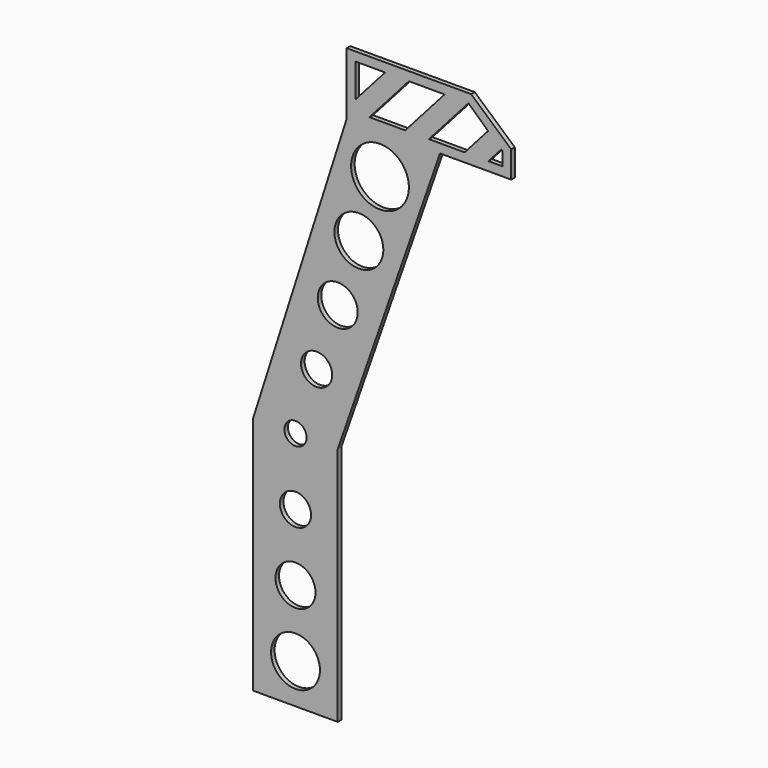
from build123d import *

# Parameters (mm, degrees)
F1_DEPTH = 6.35
F3_DEPTH = 25.4
F4_R     = 15.875
F4_R_2   = 22.225
F4_R_3   = 41.275
F4_R_4   = 28.575
F4_R_5   = 34.925
F5_DEPTH = 25.4


with BuildPart() as f1:
    # F0 (on Front) → F1 (new body)
    with BuildSketch(Plane.XZ):
        Polygon((-120.65, 342.9), (-120.65, 0), (0, 0), (0, 342.9), (146.05, 762), (12.7, 762), align=None)
        Polygon((12.7, 850.9), (12.7, 762), (146.05, 762), (247.65, 762), (247.65, 850.9), align=None)
    extrude(amount=F1_DEPTH)

    # F2 (on face) → F3 (cut)
    with BuildSketch(Plane.XZ.offset(6.35)):
        Polygon((247.65, 850.9), (190.5, 850.9), (247.65, 800.1), align=None)
    extrude(amount=-F3_DEPTH, mode=Mode.SUBTRACT)

    # F4 (on face) → F5 (cut)
    with BuildSketch(Plane.XZ.offset(6.35)):
        with Locations((-60.325, 342.9)):
            Circle(F4_R)
        with Locations((-30.1625, 433.3875)):
            Circle(F4_R_2)
        with Locations((60.325, 704.85)):
            Circle(F4_R_3)
        Polygon((186.552938, 838.2), (186.164132, 837.762077), (214.640432, 812.44981), align=None)
        Polygon((234.95, 794.396861), (233.624632, 795.574966), (215.09097, 774.7), (234.95, 774.7), align=None)
        with Locations((0, 523.875)):
            Circle(F4_R_4)
        with Locations((0, 523.875)):
            Circle(F4_R_4)
        with Locations((30.1625, 614.3625)):
            Circle(F4_R_5)
        Polygon((67.670581, 838.2), (25.4, 838.2), (25.4, 790.589499), align=None)
        Polygon((152.58655, 838.2), (101.636968, 838.2), (45.25903, 774.7), (96.208612, 774.7), align=None)
        Polygon((214.640432, 812.44981), (186.164132, 837.762077), (130.175, 774.7), (181.124582, 774.7), align=None)
        with Locations((30.1625, 614.3625)):
            Circle(F4_R_5)
        with Locations((-60.325, 247.523)):
            Circle(F4_R_2)
        with Locations((-60.325, 152.146)):
            Circle(F4_R_4)
        with Locations((-60.325, 56.769)):
            Circle(F4_R_5)
    extrude(amount=-F5_DEPTH, mode=Mode.SUBTRACT)


solid = f1.part
